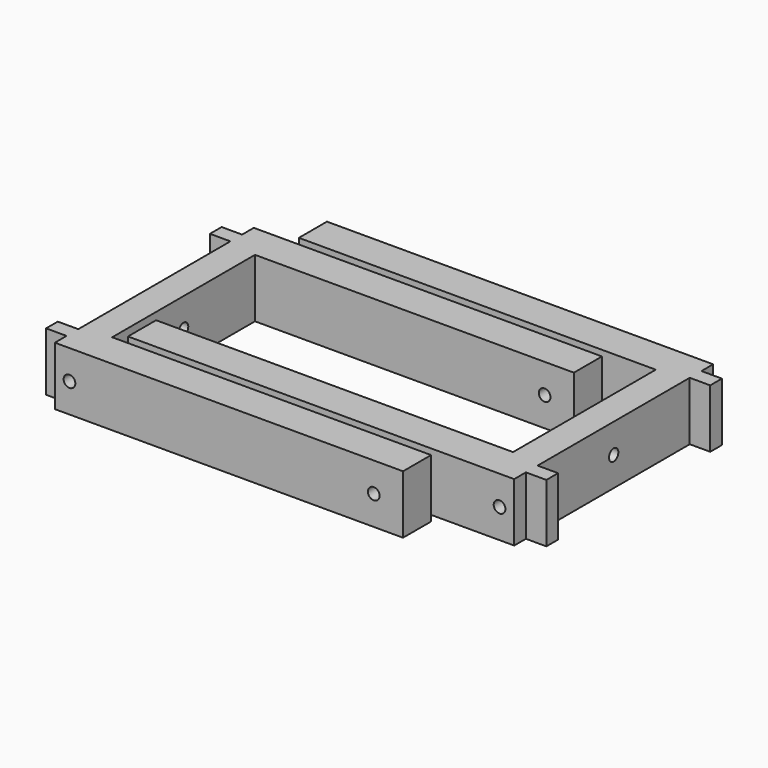
from build123d import *

# Parameters (mm, degrees)
PAD_DEPTH       = 20
SKETCH004_R     = 2
POCKET002_DEPTH = 119.001
SKETCH005_R     = 2
POCKET003_DEPTH = 85.001
PAD001_DEPTH    = 20
SKETCH007_R     = 2
POCKET004_DEPTH = 132.001
SKETCH008_R     = 2
POCKET005_DEPTH = 85.001


with BuildPart() as soporte_agujero_superior_lateral:
    # Sketch → Pad (new body)
    with BuildSketch(Plane.XY):
        Polygon((-10, -42.5), (109, -42.5), (109, -30.5), (0, -30.5), (0, 30.5), (109, 30.5), (109, 42.5), (-10, 42.5), (-10, 37.5), (-17, 37.5), (-17, 32.5), (-10, 32.5), (-10, -32.5), (-17, -32.5), (-17, -37.5), (-10, -37.5), align=None)
    extrude(amount=PAD_DEPTH)

    # Sketch004 → Pocket002 (cut, through all)
    with BuildSketch(Plane(origin=(-10, 0, 0), x_dir=(0, -1, 0), z_dir=(-1, 0, 0))):
        with Locations((0, 10)):
            Circle(SKETCH004_R)
    extrude(amount=-POCKET002_DEPTH, mode=Mode.SUBTRACT)

    # Sketch005 → Pocket003 (cut, through all)
    with BuildSketch(Plane.XZ.offset(42.5)):
        with Locations((-5, 10)):
            Circle(SKETCH005_R)
        with Locations((99, 10)):
            Circle(SKETCH005_R)
    extrude(amount=-POCKET003_DEPTH, mode=Mode.SUBTRACT)


with BuildPart() as soporte_agujero_superior_lateral001:
    # Sketch006 → Pad001 (new body)
    with BuildSketch(Plane(origin=(125, 15, 0), x_dir=(-1, 0, 0), z_dir=(0, 0, 1))):
        Polygon((-10, -42.5), (122, -42.5), (122, -30.5), (0, -30.5), (0, 30.5), (122, 30.5), (122, 42.5), (-10, 42.5), (-10, 37.5), (-17, 37.5), (-17, 32.5), (-10, 32.5), (-10, -32.5), (-17, -32.5), (-17, -37.5), (-10, -37.5), align=None)
    extrude(amount=PAD001_DEPTH)

    # Sketch007 → Pocket004 (cut, through all)
    with BuildSketch(Plane(origin=(135, 15, 0), x_dir=(0, 1, 0), z_dir=(1, 0, 0))):
        with Locations((0, 10)):
            Circle(SKETCH007_R)
    extrude(amount=-POCKET004_DEPTH, mode=Mode.SUBTRACT)

    # Sketch008 → Pocket005 (cut, through all)
    with BuildSketch(Plane(origin=(125, 57.5, 0), x_dir=(-1, 0, 0), z_dir=(0, 1, 0))):
        with Locations((-5, 10)):
            Circle(SKETCH008_R)
        with Locations((112, 10)):
            Circle(SKETCH008_R)
    extrude(amount=-POCKET005_DEPTH, mode=Mode.SUBTRACT)


solid = Compound([soporte_agujero_superior_lateral.part, soporte_agujero_superior_lateral001.part])
